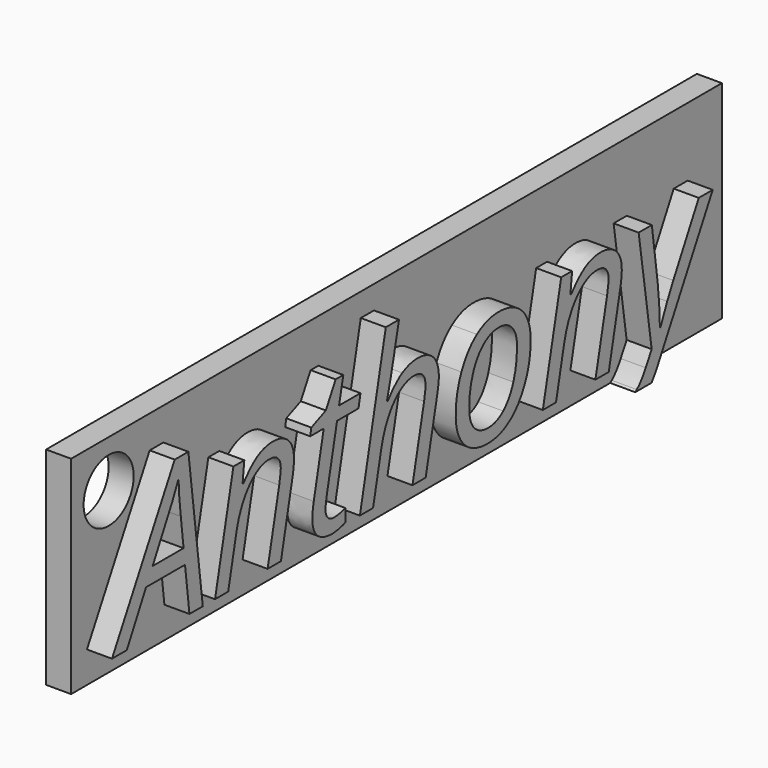
from build123d import *

# Parameters (mm, degrees)
F0_R     = 3.175
F1_DEPTH = 2.54
F2_DEPTH = 2.54


with BuildPart() as f1:
    # F0 (on Right) → F1 (new body)
    with BuildSketch(Plane.YZ):
        with BuildLine():
            Line((41.275, 17.8524902813), (-41.275, 17.8524902813))
            Line((-41.275, 17.8524902813), (-41.275, -3.175))
            Line((-41.275, -3.175), (27.1037448978, -3.175))
            add(Edge.make_bspline(
                [(27.1037448978, -3.175), (27.2077725582, -3.1051111025), (27.3052919784, -3.021180454)],
                knots=[0.8326981706, 0.8326981706, 0.8326981706, 1, 1, 1], degree=2))
            add(Edge.make_bspline(
                [(27.3052919784, -3.021180454), (27.8881871003, -2.5195084229), (28.4360448104, -1.5320904569)],
                knots=[0, 0, 0, 1, 1, 1], degree=2))
            Line((28.4360448104, -1.5320904569), (29.1909417715, -0.1783722777))
            Line((29.1909417715, -0.1783722777), (27.5378129833, 10.9093759144))
            Line((27.5378129833, 10.9093759144), (29.210053087, 10.9093759144))
            Line((29.210053087, 10.9093759144), (29.9490239518, 5.48494754))
            add(Edge.make_bspline(
                [(29.9490239518, 5.48494754), (30.0477657484, 4.7969401831), (30.1417297162, 3.4591481002)],
                knots=[0, 0, 0, 1, 1, 1], degree=2))
            add(Edge.make_bspline(
                [(30.1417297162, 3.4591481002), (30.2356936839, 2.1213560172), (30.2356936839, 1.3027546712)],
                knots=[0, 0, 0, 1, 1, 1], degree=2))
            Line((30.2356936839, 1.3027546712), (30.2962128496, 1.3027546712))
            add(Edge.make_bspline(
                [(30.2962128496, 1.3027546712), (30.6434017473, 2.1691343059), (31.1609998746, 3.295109309)],
                knots=[0, 0, 0, 1, 1, 1], degree=2))
            add(Edge.make_bspline(
                [(31.1609998746, 3.295109309), (31.6785980019, 4.4210843122), (31.927045103, 4.847903691)],
                knots=[0, 0, 0, 1, 1, 1], degree=2))
            Line((31.927045103, 4.847903691), (35.163227856, 10.9093759144))
            Line((35.163227856, 10.9093759144), (36.9342097563, 10.9093759144))
            Line((36.9342097563, 10.9093759144), (30.0063578983, -1.8506123814))
            add(Edge.make_bspline(
                [(30.0063578983, -1.8506123814), (29.5929182901, -2.6176141372), (29.1829882326, -3.175)],
                knots=[0, 0, 0, 0.4475842043, 0.4475842043, 0.4475842043], degree=2))
            Line((29.1829882326, -3.175), (41.275, -3.175))
            Line((41.275, -3.175), (41.275, 17.8524902813))
        make_face()
        with BuildLine():
            Line((-17.8356351628, 0), (-19.526986582, 0))
            Line((-19.526986582, 0), (-18.0522300715, 6.8896292271))
            add(Edge.make_bspline(
                [(-18.0522300715, 6.8896292271), (-17.8547464783, 7.9248254818), (-17.8547464783, 8.3229778874)],
                knots=[0, 0, 0, 1, 1, 1], degree=2))
            add(Edge.make_bspline(
                [(-17.8547464783, 8.3229778874), (-17.8547464783, 8.9472808594), (-18.2083058145, 9.3263219496)],
                knots=[0, 0, 0, 1, 1, 1], degree=2))
            add(Edge.make_bspline(
                [(-18.2083058145, 9.3263219496), (-18.5618651507, 9.7053630398), (-19.3358734272, 9.7053630398)],
                knots=[0, 0, 0, 1, 1, 1], degree=2))
            add(Edge.make_bspline(
                [(-19.3358734272, 9.7053630398), (-20.2245495966, 9.7053630398), (-21.0654474773, 9.1081344313)],
                knots=[0, 0, 0, 1, 1, 1], degree=2))
            add(Edge.make_bspline(
                [(-21.0654474773, 9.1081344313), (-21.906345358, 8.5109058228), (-22.5481670359, 7.4056347448)],
                knots=[0, 0, 0, 1, 1, 1], degree=2))
            add(Edge.make_bspline(
                [(-22.5481670359, 7.4056347448), (-23.1899887138, 6.3003636668), (-23.518066296, 4.7268653597)],
                knots=[0, 0, 0, 1, 1, 1], degree=2))
            Line((-23.518066296, 4.7268653597), (-24.5245955775, 0))
            Line((-24.5245955775, 0), (-26.1968356811, 0))
            Line((-26.1968356811, 0), (-23.8652551937, 10.9093759144))
            Line((-23.8652551937, 10.9093759144), (-22.4828700414, 10.9093759144))
            Line((-22.4828700414, 10.9093759144), (-22.7026501693, 8.889946913))
            Line((-22.7026501693, 8.889946913), (-22.6007231535, 8.889946913))
            add(Edge.make_bspline(
                [(-22.6007231535, 8.889946913), (-21.6451573799, 10.1035154454), (-20.7548886009, 10.6067800861)],
                knots=[0, 0, 0, 1, 1, 1], degree=2))
            add(Edge.make_bspline(
                [(-20.7548886009, 10.6067800861), (-19.8646198219, 11.1100447268), (-18.9090540484, 11.1100447268)],
                knots=[0, 0, 0, 1, 1, 1], degree=2))
            add(Edge.make_bspline(
                [(-18.9090540484, 11.1100447268), (-17.6445220081, 11.1100447268), (-16.9135141914, 10.417259541)],
                knots=[0, 0, 0, 1, 1, 1], degree=2))
            add(Edge.make_bspline(
                [(-16.9135141914, 10.417259541), (-16.1825063746, 9.7244743552), (-16.1825063746, 8.4822388496)],
                knots=[0, 0, 0, 1, 1, 1], degree=2))
            add(Edge.make_bspline(
                [(-16.1825063746, 8.4822388496), (-16.1825063746, 7.6954896961), (-16.4118421603, 6.6889604147)],
                knots=[0, 0, 0, 1, 1, 1], degree=2))
            Line((-16.4118421603, 6.6889604147), (-17.8356351628, 0))
        make_face(mode=Mode.SUBTRACT)
        with BuildLine():
            add(Edge.make_bspline(
                [(7.0234084354, 10.1576641726), (8.2576808929, 11.0495255612), (9.7579191573, 11.0495255612)],
                knots=[0, 0, 0, 1, 1, 1], degree=2))
            add(Edge.make_bspline(
                [(9.7579191573, 11.0495255612), (11.6499393889, 11.0495255612), (12.7456548092, 9.9299209965)],
                knots=[0, 0, 0, 1, 1, 1], degree=2))
            add(Edge.make_bspline(
                [(12.7456548092, 9.9299209965), (13.8413702295, 8.8103164319), (13.8413702295, 6.8482213769)],
                knots=[0, 0, 0, 1, 1, 1], degree=2))
            add(Edge.make_bspline(
                [(13.8413702295, 6.8482213769), (13.8413702295, 4.9784976801), (13.1246958993, 3.3158132341)],
                knots=[0, 0, 0, 1, 1, 1], degree=2))
            add(Edge.make_bspline(
                [(13.1246958993, 3.3158132341), (12.4080215692, 1.6531287882), (11.1833047695, 0.746933913)],
                knots=[0, 0, 0, 1, 1, 1], degree=2))
            add(Edge.make_bspline(
                [(11.1833047695, 0.746933913), (9.9585879697, -0.1592609623), (8.4169418551, -0.1592609623)],
                knots=[0, 0, 0, 1, 1, 1], degree=2))
            add(Edge.make_bspline(
                [(8.4169418551, -0.1592609623), (6.5058103081, -0.1592609623), (5.4196505455, 0.9651214313)],
                knots=[0, 0, 0, 1, 1, 1], degree=2))
            add(Edge.make_bspline(
                [(5.4196505455, 0.9651214313), (4.3334907829, 2.0895038248), (4.3334907829, 4.042043222)],
                knots=[0, 0, 0, 1, 1, 1], degree=2))
            add(Edge.make_bspline(
                [(4.3334907829, 4.042043222), (4.3334907829, 5.9340634536), (5.0613133804, 7.5999331188)],
                knots=[0, 0, 0, 1, 1, 1], degree=2))
            add(Edge.make_bspline(
                [(5.0613133804, 7.5999331188), (5.7891359779, 9.2658027839), (7.0234084354, 10.1576641726)],
                knots=[0, 0, 0, 1, 1, 1], degree=2))
        make_face(mode=Mode.SUBTRACT)
        with BuildLine():
            Line((23.7442168624, 0), (22.0528654433, 0))
            Line((22.0528654433, 0), (23.5276219538, 6.8896292271))
            add(Edge.make_bspline(
                [(23.5276219538, 6.8896292271), (23.725105547, 7.9248254818), (23.725105547, 8.3229778874)],
                knots=[0, 0, 0, 1, 1, 1], degree=2))
            add(Edge.make_bspline(
                [(23.725105547, 8.3229778874), (23.725105547, 8.9472808594), (23.3715462108, 9.3263219496)],
                knots=[0, 0, 0, 1, 1, 1], degree=2))
            add(Edge.make_bspline(
                [(23.3715462108, 9.3263219496), (23.0179868746, 9.7053630398), (22.243978598, 9.7053630398)],
                knots=[0, 0, 0, 1, 1, 1], degree=2))
            add(Edge.make_bspline(
                [(22.243978598, 9.7053630398), (21.3553024286, 9.7053630398), (20.5144045479, 9.1081344313)],
                knots=[0, 0, 0, 1, 1, 1], degree=2))
            add(Edge.make_bspline(
                [(20.5144045479, 9.1081344313), (19.6735066672, 8.5109058228), (19.0316849893, 7.4056347448)],
                knots=[0, 0, 0, 1, 1, 1], degree=2))
            add(Edge.make_bspline(
                [(19.0316849893, 7.4056347448), (18.3898633115, 6.3003636668), (18.0617857292, 4.7268653597)],
                knots=[0, 0, 0, 1, 1, 1], degree=2))
            Line((18.0617857292, 4.7268653597), (17.0552564478, 0))
            Line((17.0552564478, 0), (15.3830163441, 0))
            Line((15.3830163441, 0), (17.7145968315, 10.9093759144))
            Line((17.7145968315, 10.9093759144), (19.0969819839, 10.9093759144))
            Line((19.0969819839, 10.9093759144), (18.877201856, 8.889946913))
            Line((18.877201856, 8.889946913), (18.9791288718, 8.889946913))
            add(Edge.make_bspline(
                [(18.9791288718, 8.889946913), (19.9346946453, 10.1035154454), (20.8249634243, 10.6067800861)],
                knots=[0, 0, 0, 1, 1, 1], degree=2))
            add(Edge.make_bspline(
                [(20.8249634243, 10.6067800861), (21.7152322033, 11.1100447268), (22.6707979768, 11.1100447268)],
                knots=[0, 0, 0, 1, 1, 1], degree=2))
            add(Edge.make_bspline(
                [(22.6707979768, 11.1100447268), (23.9353300171, 11.1100447268), (24.6663378339, 10.417259541)],
                knots=[0, 0, 0, 1, 1, 1], degree=2))
            add(Edge.make_bspline(
                [(24.6663378339, 10.417259541), (25.3973456506, 9.7244743552), (25.3973456506, 8.4822388496)],
                knots=[0, 0, 0, 1, 1, 1], degree=2))
            add(Edge.make_bspline(
                [(25.3973456506, 8.4822388496), (25.3973456506, 7.6954896961), (25.168009865, 6.6889604147)],
                knots=[0, 0, 0, 1, 1, 1], degree=2))
            Line((25.168009865, 6.6889604147), (23.7442168624, 0))
        make_face(mode=Mode.SUBTRACT)
        Polygon((-29.4393888726, 0), (-30.0063578983, 4.6281235631), (-34.9434477281, 4.6281235631), (-37.3833256699, 0), (-39.2657902437, 0), (-31.3122977887, 14.5532667308), (-29.5795385194, 14.5532667308), (-27.7480374535, 0), align=None, mode=Mode.SUBTRACT)
        with BuildLine():
            add(Edge.make_bspline(
                [(-11.8904234419, 1.4636082431), (-11.6021611002, 1.1657902437), (-11.0861555825, 1.1657902437)],
                knots=[0, 0, 0, 1, 1, 1], degree=2))
            add(Edge.make_bspline(
                [(-11.0861555825, 1.1657902437), (-10.5382978723, 1.1657902437), (-9.6528069222, 1.4237930025)],
                knots=[0, 0, 0, 1, 1, 1], degree=2))
            Line((-9.6528069222, 1.4237930025), (-9.6528069222, 0.1401496468))
            add(Edge.make_bspline(
                [(-9.6528069222, 0.1401496468), (-9.9904401622, 0), (-10.4873343644, -0.1003344062)],
                knots=[0, 0, 0, 1, 1, 1], degree=2))
            add(Edge.make_bspline(
                [(-10.4873343644, -0.1003344062), (-10.9842285667, -0.2006688124), (-11.2836391757, -0.2006688124)],
                knots=[0, 0, 0, 1, 1, 1], degree=2))
            add(Edge.make_bspline(
                [(-11.2836391757, -0.2006688124), (-12.5290599005, -0.2006688124), (-13.1899928939, 0.3917819671)],
                knots=[0, 0, 0, 1, 1, 1], degree=2))
            add(Edge.make_bspline(
                [(-13.1899928939, 0.3917819671), (-13.8509258872, 0.9842327467), (-13.8509258872, 2.1595786482)],
                knots=[0, 0, 0, 1, 1, 1], degree=2))
            add(Edge.make_bspline(
                [(-13.8509258872, 2.1595786482), (-13.8509258872, 2.8157338126), (-13.6725536095, 3.6534464741)],
                knots=[0, 0, 0, 1, 1, 1], degree=2))
            Line((-13.6725536095, 3.6534464741), (-12.4080215692, 9.6448438741))
            Line((-12.4080215692, 9.6448438741), (-14.1216695231, 9.6448438741))
            Line((-14.1216695231, 9.6448438741), (-13.9815198763, 10.371073862))
            Line((-13.9815198763, 10.371073862), (-12.1404631526, 11.1482673578))
            Line((-12.1404631526, 11.1482673578), (-10.8950424278, 13.4193286795))
            Line((-10.8950424278, 13.4193286795), (-9.9203653388, 13.4193286795))
            Line((-9.9203653388, 13.4193286795), (-10.4682230489, 10.9093759144))
            Line((-10.4682230489, 10.9093759144), (-7.7416753752, 10.9093759144))
            Line((-7.7416753752, 10.9093759144), (-7.999678134, 9.6448438741))
            Line((-7.999678134, 9.6448438741), (-10.7166701501, 9.6448438741))
            Line((-10.7166701501, 9.6448438741), (-12.0003135058, 3.6343351586))
            add(Edge.make_bspline(
                [(-12.0003135058, 3.6343351586), (-12.1786857836, 2.767955524), (-12.1786857836, 2.3188396104)],
                knots=[0, 0, 0, 1, 1, 1], degree=2))
            add(Edge.make_bspline(
                [(-12.1786857836, 2.3188396104), (-12.1786857836, 1.7614262425), (-11.8904234419, 1.4636082431)],
                knots=[0, 0, 0, 1, 1, 1], degree=2))
        make_face(mode=Mode.SUBTRACT)
        with BuildLine():
            Line((0.5207833466, 0), (-1.1514567571, 0))
            Line((-1.1514567571, 0), (0.3232997534, 6.8896292271))
            add(Edge.make_bspline(
                [(0.3232997534, 6.8896292271), (0.5016720311, 7.8228984659), (0.5016720311, 8.2306065293)],
                knots=[0, 0, 0, 1, 1, 1], degree=2))
            add(Edge.make_bspline(
                [(0.5016720311, 8.2306065293), (0.5016720311, 9.7053630398), (-0.9603436024, 9.7053630398)],
                knots=[0, 0, 0, 1, 1, 1], degree=2))
            add(Edge.make_bspline(
                [(-0.9603436024, 9.7053630398), (-1.8490197718, 9.7053630398), (-2.6899176525, 9.117690089)],
                knots=[0, 0, 0, 1, 1, 1], degree=2))
            add(Edge.make_bspline(
                [(-2.6899176525, 9.117690089), (-3.5308155332, 8.5300171383), (-4.1726372111, 7.4104125737)],
                knots=[0, 0, 0, 1, 1, 1], degree=2))
            add(Edge.make_bspline(
                [(-4.1726372111, 7.4104125737), (-4.8144588889, 6.290808009), (-5.1425364712, 4.7077540442)],
                knots=[0, 0, 0, 1, 1, 1], degree=2))
            Line((-5.1425364712, 4.7077540442), (-6.1490657526, 0))
            Line((-6.1490657526, 0), (-7.8213058563, 0))
            Line((-7.8213058563, 0), (-4.5341595954, 15.4897211888))
            Line((-4.5341595954, 15.4897211888), (-2.8619194917, 15.4897211888))
            add(Edge.make_bspline(
                [(-2.8619194917, 15.4897211888), (-3.0434769887, 14.6711198428), (-3.2075157798, 13.9050746144)],
                knots=[0, 0, 0, 1, 1, 1], degree=2))
            add(Edge.make_bspline(
                [(-3.2075157798, 13.9050746144), (-3.3715545709, 13.1390293859), (-3.5451490198, 12.3475024035)],
                knots=[0, 0, 0, 1, 1, 1], degree=2))
            add(Edge.make_bspline(
                [(-3.5451490198, 12.3475024035), (-3.7187434686, 11.5559754211), (-3.9225975003, 10.6895957865)],
                knots=[0, 0, 0, 1, 1, 1], degree=2))
            add(Edge.make_bspline(
                [(-3.9225975003, 10.6895957865), (-4.126451532, 9.8232161518), (-4.3971951678, 8.8103164319)],
                knots=[0, 0, 0, 1, 1, 1], degree=2))
            Line((-4.3971951678, 8.8103164319), (-4.2857124943, 8.8103164319))
            add(Edge.make_bspline(
                [(-4.2857124943, 8.8103164319), (-3.3492580362, 10.033440622), (-2.4398779417, 10.5605944071)],
                knots=[0, 0, 0, 1, 1, 1], degree=2))
            add(Edge.make_bspline(
                [(-2.4398779417, 10.5605944071), (-1.5304978473, 11.0877481921), (-0.5335242236, 11.0877481921)],
                knots=[0, 0, 0, 1, 1, 1], degree=2))
            add(Edge.make_bspline(
                [(-0.5335242236, 11.0877481921), (0.7692304477, 11.0877481921), (1.481126949, 10.371073862)],
                knots=[0, 0, 0, 1, 1, 1], degree=2))
            add(Edge.make_bspline(
                [(1.481126949, 10.371073862), (2.1930234502, 9.6543995318), (2.1930234502, 8.3420892029)],
                knots=[0, 0, 0, 1, 1, 1], degree=2))
            add(Edge.make_bspline(
                [(2.1930234502, 8.3420892029), (2.1930234502, 7.7241566693), (1.9636876646, 6.6889604147)],
                knots=[0, 0, 0, 1, 1, 1], degree=2))
            add(Edge.make_bspline(
                [(1.9636876646, 6.6889604147), (1.5750909167, 4.7682732099), (0.5207833466, 0)],
                knots=[0, 0, 0, 1, 1, 1], degree=2))
        make_face(mode=Mode.SUBTRACT)
        with Locations((-36.5125, 13.0899902813)):
            Circle(F0_R, mode=Mode.SUBTRACT)
        with BuildLine():
            add(Edge.make_bspline(
                [(9.7579191573, 11.0495255612), (11.6499393889, 11.0495255612), (12.7456548092, 9.9299209965)],
                knots=[0, 0, 0, 1, 1, 1], degree=2))
            add(Edge.make_bspline(
                [(7.0234084354, 10.1576641726), (8.2576808929, 11.0495255612), (9.7579191573, 11.0495255612)],
                knots=[0, 0, 0, 1, 1, 1], degree=2))
            add(Edge.make_bspline(
                [(5.0613133804, 7.5999331188), (5.7891359779, 9.2658027839), (7.0234084354, 10.1576641726)],
                knots=[0, 0, 0, 1, 1, 1], degree=2))
            add(Edge.make_bspline(
                [(4.3334907829, 4.042043222), (4.3334907829, 5.9340634536), (5.0613133804, 7.5999331188)],
                knots=[0, 0, 0, 1, 1, 1], degree=2))
            add(Edge.make_bspline(
                [(5.4196505455, 0.9651214313), (4.3334907829, 2.0895038248), (4.3334907829, 4.042043222)],
                knots=[0, 0, 0, 1, 1, 1], degree=2))
            add(Edge.make_bspline(
                [(8.4169418551, -0.1592609623), (6.5058103081, -0.1592609623), (5.4196505455, 0.9651214313)],
                knots=[0, 0, 0, 1, 1, 1], degree=2))
            add(Edge.make_bspline(
                [(11.1833047695, 0.746933913), (9.9585879697, -0.1592609623), (8.4169418551, -0.1592609623)],
                knots=[0, 0, 0, 1, 1, 1], degree=2))
            add(Edge.make_bspline(
                [(13.1246958993, 3.3158132341), (12.4080215692, 1.6531287882), (11.1833047695, 0.746933913)],
                knots=[0, 0, 0, 1, 1, 1], degree=2))
            add(Edge.make_bspline(
                [(13.8413702295, 6.8482213769), (13.8413702295, 4.9784976801), (13.1246958993, 3.3158132341)],
                knots=[0, 0, 0, 1, 1, 1], degree=2))
            add(Edge.make_bspline(
                [(12.7456548092, 9.9299209965), (13.8413702295, 8.8103164319), (13.8413702295, 6.8482213769)],
                knots=[0, 0, 0, 1, 1, 1], degree=2))
        make_face()
        with BuildLine():
            add(Edge.make_bspline(
                [(12.1086109602, 7.0775571626), (12.1086109602, 8.2210508715), (11.4859005978, 8.9329473728)],
                knots=[0, 0, 0, 1, 1, 1], degree=2))
            add(Edge.make_bspline(
                [(11.64516156, 4.016561468), (12.1086109602, 5.354353551), (12.1086109602, 7.0775571626)],
                knots=[0, 0, 0, 1, 1, 1], degree=2))
            add(Edge.make_bspline(
                [(10.3567403754, 1.9509467876), (11.1817121598, 2.6787693851), (11.64516156, 4.016561468)],
                knots=[0, 0, 0, 1, 1, 1], degree=2))
            add(Edge.make_bspline(
                [(8.4965723362, 1.2231241901), (9.5317685909, 1.2231241901), (10.3567403754, 1.9509467876)],
                knots=[0, 0, 0, 1, 1, 1], degree=2))
            add(Edge.make_bspline(
                [(6.6794047569, 1.9350206914), (7.3116707771, 1.2231241901), (8.4965723362, 1.2231241901)],
                knots=[0, 0, 0, 1, 1, 1], degree=2))
            add(Edge.make_bspline(
                [(6.0471387368, 3.9528570831), (6.0471387368, 2.6469171927), (6.6794047569, 1.9350206914)],
                knots=[0, 0, 0, 1, 1, 1], degree=2))
            add(Edge.make_bspline(
                [(6.5201437947, 6.8641474731), (6.0471387368, 5.5550223634), (6.0471387368, 3.9528570831)],
                knots=[0, 0, 0, 1, 1, 1], degree=2))
            add(Edge.make_bspline(
                [(7.8531580487, 8.9090582285), (6.9931488526, 8.1732725829), (6.5201437947, 6.8641474731)],
                knots=[0, 0, 0, 1, 1, 1], degree=2))
            add(Edge.make_bspline(
                [(9.7993270075, 9.6448438741), (8.7131672449, 9.6448438741), (7.8531580487, 8.9090582285)],
                knots=[0, 0, 0, 1, 1, 1], degree=2))
            add(Edge.make_bspline(
                [(11.4859005978, 8.9329473728), (10.8631902353, 9.6448438741), (9.7993270075, 9.6448438741)],
                knots=[0, 0, 0, 1, 1, 1], degree=2))
        make_face(mode=Mode.SUBTRACT)
        Polygon((-34.9434477281, 4.6281235631), (-30.0063578983, 4.6281235631), (-29.4393888726, 0), (-27.7480374535, 0), (-29.5795385194, 14.5532667308), (-31.3122977887, 14.5532667308), (-39.2657902437, 0), (-37.3833256699, 0), align=None)
        with BuildLine():
            Line((-30.5351042929, 9.1575053296), (-30.1879153952, 6.1825105547))
            Line((-30.1879153952, 6.1825105547), (-34.1089202859, 6.1825105547))
            add(Edge.make_bspline(
                [(-31.6244492748, 10.8998202567), (-32.0576390921, 10.033440622), (-34.1089202859, 6.1825105547)],
                knots=[0, 0, 0, 1, 1, 1], degree=2))
            add(Edge.make_bspline(
                [(-30.8249592442, 12.6421351837), (-31.1912594574, 11.7661998913), (-31.6244492748, 10.8998202567)],
                knots=[0, 0, 0, 1, 1, 1], degree=2))
            add(Edge.make_bspline(
                [(-30.5351042929, 9.1575053296), (-30.7739957363, 10.9380428876), (-30.8249592442, 12.6421351837)],
                knots=[0, 0, 0, 1, 1, 1], degree=2))
        make_face(mode=Mode.SUBTRACT)
        with BuildLine():
            Line((0.3232997534, 6.8896292271), (-1.1514567571, 0))
            Line((-1.1514567571, 0), (0.5207833466, 0))
            add(Edge.make_bspline(
                [(1.9636876646, 6.6889604147), (1.5750909167, 4.7682732099), (0.5207833466, 0)],
                knots=[0, 0, 0, 1, 1, 1], degree=2))
            add(Edge.make_bspline(
                [(2.1930234502, 8.3420892029), (2.1930234502, 7.7241566693), (1.9636876646, 6.6889604147)],
                knots=[0, 0, 0, 1, 1, 1], degree=2))
            add(Edge.make_bspline(
                [(1.481126949, 10.371073862), (2.1930234502, 9.6543995318), (2.1930234502, 8.3420892029)],
                knots=[0, 0, 0, 1, 1, 1], degree=2))
            add(Edge.make_bspline(
                [(-0.5335242236, 11.0877481921), (0.7692304477, 11.0877481921), (1.481126949, 10.371073862)],
                knots=[0, 0, 0, 1, 1, 1], degree=2))
            add(Edge.make_bspline(
                [(-2.4398779417, 10.5605944071), (-1.5304978473, 11.0877481921), (-0.5335242236, 11.0877481921)],
                knots=[0, 0, 0, 1, 1, 1], degree=2))
            add(Edge.make_bspline(
                [(-4.2857124943, 8.8103164319), (-3.3492580362, 10.033440622), (-2.4398779417, 10.5605944071)],
                knots=[0, 0, 0, 1, 1, 1], degree=2))
            Line((-4.2857124943, 8.8103164319), (-4.3971951678, 8.8103164319))
            add(Edge.make_bspline(
                [(-3.9225975003, 10.6895957865), (-4.126451532, 9.8232161518), (-4.3971951678, 8.8103164319)],
                knots=[0, 0, 0, 1, 1, 1], degree=2))
            add(Edge.make_bspline(
                [(-3.5451490198, 12.3475024035), (-3.7187434686, 11.5559754211), (-3.9225975003, 10.6895957865)],
                knots=[0, 0, 0, 1, 1, 1], degree=2))
            add(Edge.make_bspline(
                [(-3.2075157798, 13.9050746144), (-3.3715545709, 13.1390293859), (-3.5451490198, 12.3475024035)],
                knots=[0, 0, 0, 1, 1, 1], degree=2))
            add(Edge.make_bspline(
                [(-2.8619194917, 15.4897211888), (-3.0434769887, 14.6711198428), (-3.2075157798, 13.9050746144)],
                knots=[0, 0, 0, 1, 1, 1], degree=2))
            Line((-2.8619194917, 15.4897211888), (-4.5341595954, 15.4897211888))
            Line((-4.5341595954, 15.4897211888), (-7.8213058563, 0))
            Line((-7.8213058563, 0), (-6.1490657526, 0))
            Line((-6.1490657526, 0), (-5.1425364712, 4.7077540442))
            add(Edge.make_bspline(
                [(-4.1726372111, 7.4104125737), (-4.8144588889, 6.290808009), (-5.1425364712, 4.7077540442)],
                knots=[0, 0, 0, 1, 1, 1], degree=2))
            add(Edge.make_bspline(
                [(-2.6899176525, 9.117690089), (-3.5308155332, 8.5300171383), (-4.1726372111, 7.4104125737)],
                knots=[0, 0, 0, 1, 1, 1], degree=2))
            add(Edge.make_bspline(
                [(-0.9603436024, 9.7053630398), (-1.8490197718, 9.7053630398), (-2.6899176525, 9.117690089)],
                knots=[0, 0, 0, 1, 1, 1], degree=2))
            add(Edge.make_bspline(
                [(0.5016720311, 8.2306065293), (0.5016720311, 9.7053630398), (-0.9603436024, 9.7053630398)],
                knots=[0, 0, 0, 1, 1, 1], degree=2))
            add(Edge.make_bspline(
                [(0.3232997534, 6.8896292271), (0.5016720311, 7.8228984659), (0.5016720311, 8.2306065293)],
                knots=[0, 0, 0, 1, 1, 1], degree=2))
        make_face()
        with BuildLine():
            Line((-18.0522300715, 6.8896292271), (-19.526986582, 0))
            Line((-19.526986582, 0), (-17.8356351628, 0))
            Line((-17.8356351628, 0), (-16.4118421603, 6.6889604147))
            add(Edge.make_bspline(
                [(-16.1825063746, 8.4822388496), (-16.1825063746, 7.6954896961), (-16.4118421603, 6.6889604147)],
                knots=[0, 0, 0, 1, 1, 1], degree=2))
            add(Edge.make_bspline(
                [(-16.9135141914, 10.417259541), (-16.1825063746, 9.7244743552), (-16.1825063746, 8.4822388496)],
                knots=[0, 0, 0, 1, 1, 1], degree=2))
            add(Edge.make_bspline(
                [(-18.9090540484, 11.1100447268), (-17.6445220081, 11.1100447268), (-16.9135141914, 10.417259541)],
                knots=[0, 0, 0, 1, 1, 1], degree=2))
            add(Edge.make_bspline(
                [(-20.7548886009, 10.6067800861), (-19.8646198219, 11.1100447268), (-18.9090540484, 11.1100447268)],
                knots=[0, 0, 0, 1, 1, 1], degree=2))
            add(Edge.make_bspline(
                [(-22.6007231535, 8.889946913), (-21.6451573799, 10.1035154454), (-20.7548886009, 10.6067800861)],
                knots=[0, 0, 0, 1, 1, 1], degree=2))
            Line((-22.6007231535, 8.889946913), (-22.7026501693, 8.889946913))
            Line((-22.7026501693, 8.889946913), (-22.4828700414, 10.9093759144))
            Line((-22.4828700414, 10.9093759144), (-23.8652551937, 10.9093759144))
            Line((-23.8652551937, 10.9093759144), (-26.1968356811, 0))
            Line((-26.1968356811, 0), (-24.5245955775, 0))
            Line((-24.5245955775, 0), (-23.518066296, 4.7268653597))
            add(Edge.make_bspline(
                [(-22.5481670359, 7.4056347448), (-23.1899887138, 6.3003636668), (-23.518066296, 4.7268653597)],
                knots=[0, 0, 0, 1, 1, 1], degree=2))
            add(Edge.make_bspline(
                [(-21.0654474773, 9.1081344313), (-21.906345358, 8.5109058228), (-22.5481670359, 7.4056347448)],
                knots=[0, 0, 0, 1, 1, 1], degree=2))
            add(Edge.make_bspline(
                [(-19.3358734272, 9.7053630398), (-20.2245495966, 9.7053630398), (-21.0654474773, 9.1081344313)],
                knots=[0, 0, 0, 1, 1, 1], degree=2))
            add(Edge.make_bspline(
                [(-18.2083058145, 9.3263219496), (-18.5618651507, 9.7053630398), (-19.3358734272, 9.7053630398)],
                knots=[0, 0, 0, 1, 1, 1], degree=2))
            add(Edge.make_bspline(
                [(-17.8547464783, 8.3229778874), (-17.8547464783, 8.9472808594), (-18.2083058145, 9.3263219496)],
                knots=[0, 0, 0, 1, 1, 1], degree=2))
            add(Edge.make_bspline(
                [(-18.0522300715, 6.8896292271), (-17.8547464783, 7.9248254818), (-17.8547464783, 8.3229778874)],
                knots=[0, 0, 0, 1, 1, 1], degree=2))
        make_face()
        with BuildLine():
            Line((23.5276219538, 6.8896292271), (22.0528654433, 0))
            Line((22.0528654433, 0), (23.7442168624, 0))
            Line((23.7442168624, 0), (25.168009865, 6.6889604147))
            add(Edge.make_bspline(
                [(25.3973456506, 8.4822388496), (25.3973456506, 7.6954896961), (25.168009865, 6.6889604147)],
                knots=[0, 0, 0, 1, 1, 1], degree=2))
            add(Edge.make_bspline(
                [(24.6663378339, 10.417259541), (25.3973456506, 9.7244743552), (25.3973456506, 8.4822388496)],
                knots=[0, 0, 0, 1, 1, 1], degree=2))
            add(Edge.make_bspline(
                [(22.6707979768, 11.1100447268), (23.9353300171, 11.1100447268), (24.6663378339, 10.417259541)],
                knots=[0, 0, 0, 1, 1, 1], degree=2))
            add(Edge.make_bspline(
                [(20.8249634243, 10.6067800861), (21.7152322033, 11.1100447268), (22.6707979768, 11.1100447268)],
                knots=[0, 0, 0, 1, 1, 1], degree=2))
            add(Edge.make_bspline(
                [(18.9791288718, 8.889946913), (19.9346946453, 10.1035154454), (20.8249634243, 10.6067800861)],
                knots=[0, 0, 0, 1, 1, 1], degree=2))
            Line((18.9791288718, 8.889946913), (18.877201856, 8.889946913))
            Line((18.877201856, 8.889946913), (19.0969819839, 10.9093759144))
            Line((19.0969819839, 10.9093759144), (17.7145968315, 10.9093759144))
            Line((17.7145968315, 10.9093759144), (15.3830163441, 0))
            Line((15.3830163441, 0), (17.0552564478, 0))
            Line((17.0552564478, 0), (18.0617857292, 4.7268653597))
            add(Edge.make_bspline(
                [(19.0316849893, 7.4056347448), (18.3898633115, 6.3003636668), (18.0617857292, 4.7268653597)],
                knots=[0, 0, 0, 1, 1, 1], degree=2))
            add(Edge.make_bspline(
                [(20.5144045479, 9.1081344313), (19.6735066672, 8.5109058228), (19.0316849893, 7.4056347448)],
                knots=[0, 0, 0, 1, 1, 1], degree=2))
            add(Edge.make_bspline(
                [(22.243978598, 9.7053630398), (21.3553024286, 9.7053630398), (20.5144045479, 9.1081344313)],
                knots=[0, 0, 0, 1, 1, 1], degree=2))
            add(Edge.make_bspline(
                [(23.3715462108, 9.3263219496), (23.0179868746, 9.7053630398), (22.243978598, 9.7053630398)],
                knots=[0, 0, 0, 1, 1, 1], degree=2))
            add(Edge.make_bspline(
                [(23.725105547, 8.3229778874), (23.725105547, 8.9472808594), (23.3715462108, 9.3263219496)],
                knots=[0, 0, 0, 1, 1, 1], degree=2))
            add(Edge.make_bspline(
                [(23.5276219538, 6.8896292271), (23.725105547, 7.9248254818), (23.725105547, 8.3229778874)],
                knots=[0, 0, 0, 1, 1, 1], degree=2))
        make_face()
        with BuildLine():
            add(Edge.make_bspline(
                [(11.64516156, 4.016561468), (12.1086109602, 5.354353551), (12.1086109602, 7.0775571626)],
                knots=[0, 0, 0, 1, 1, 1], degree=2))
            add(Edge.make_bspline(
                [(12.1086109602, 7.0775571626), (12.1086109602, 8.2210508715), (11.4859005978, 8.9329473728)],
                knots=[0, 0, 0, 1, 1, 1], degree=2))
            add(Edge.make_bspline(
                [(11.4859005978, 8.9329473728), (10.8631902353, 9.6448438741), (9.7993270075, 9.6448438741)],
                knots=[0, 0, 0, 1, 1, 1], degree=2))
            add(Edge.make_bspline(
                [(9.7993270075, 9.6448438741), (8.7131672449, 9.6448438741), (7.8531580487, 8.9090582285)],
                knots=[0, 0, 0, 1, 1, 1], degree=2))
            add(Edge.make_bspline(
                [(7.8531580487, 8.9090582285), (6.9931488526, 8.1732725829), (6.5201437947, 6.8641474731)],
                knots=[0, 0, 0, 1, 1, 1], degree=2))
            add(Edge.make_bspline(
                [(6.5201437947, 6.8641474731), (6.0471387368, 5.5550223634), (6.0471387368, 3.9528570831)],
                knots=[0, 0, 0, 1, 1, 1], degree=2))
            add(Edge.make_bspline(
                [(6.0471387368, 3.9528570831), (6.0471387368, 2.6469171927), (6.6794047569, 1.9350206914)],
                knots=[0, 0, 0, 1, 1, 1], degree=2))
            add(Edge.make_bspline(
                [(6.6794047569, 1.9350206914), (7.3116707771, 1.2231241901), (8.4965723362, 1.2231241901)],
                knots=[0, 0, 0, 1, 1, 1], degree=2))
            add(Edge.make_bspline(
                [(8.4965723362, 1.2231241901), (9.5317685909, 1.2231241901), (10.3567403754, 1.9509467876)],
                knots=[0, 0, 0, 1, 1, 1], degree=2))
            add(Edge.make_bspline(
                [(10.3567403754, 1.9509467876), (11.1817121598, 2.6787693851), (11.64516156, 4.016561468)],
                knots=[0, 0, 0, 1, 1, 1], degree=2))
        make_face()
        with BuildLine():
            add(Edge.make_bspline(
                [(27.1037448978, -3.175), (27.2077725582, -3.1051111025), (27.3052919784, -3.021180454)],
                knots=[0.8326981706, 0.8326981706, 0.8326981706, 1, 1, 1], degree=2))
            Line((27.1037448978, -3.175), (29.1829882326, -3.175))
            add(Edge.make_bspline(
                [(30.0063578983, -1.8506123814), (29.5929182901, -2.6176141372), (29.1829882326, -3.175)],
                knots=[0, 0, 0, 0.4475842043, 0.4475842043, 0.4475842043], degree=2))
            Line((30.0063578983, -1.8506123814), (36.9342097563, 10.9093759144))
            Line((36.9342097563, 10.9093759144), (35.163227856, 10.9093759144))
            Line((35.163227856, 10.9093759144), (31.927045103, 4.847903691))
            add(Edge.make_bspline(
                [(31.1609998746, 3.295109309), (31.6785980019, 4.4210843122), (31.927045103, 4.847903691)],
                knots=[0, 0, 0, 1, 1, 1], degree=2))
            add(Edge.make_bspline(
                [(30.2962128496, 1.3027546712), (30.6434017473, 2.1691343059), (31.1609998746, 3.295109309)],
                knots=[0, 0, 0, 1, 1, 1], degree=2))
            Line((30.2962128496, 1.3027546712), (30.2356936839, 1.3027546712))
            add(Edge.make_bspline(
                [(30.1417297162, 3.4591481002), (30.2356936839, 2.1213560172), (30.2356936839, 1.3027546712)],
                knots=[0, 0, 0, 1, 1, 1], degree=2))
            add(Edge.make_bspline(
                [(29.9490239518, 5.48494754), (30.0477657484, 4.7969401831), (30.1417297162, 3.4591481002)],
                knots=[0, 0, 0, 1, 1, 1], degree=2))
            Line((29.9490239518, 5.48494754), (29.210053087, 10.9093759144))
            Line((29.210053087, 10.9093759144), (27.5378129833, 10.9093759144))
            Line((27.5378129833, 10.9093759144), (29.1909417715, -0.1783722777))
            Line((29.1909417715, -0.1783722777), (28.4360448104, -1.5320904569))
            add(Edge.make_bspline(
                [(27.3052919784, -3.021180454), (27.8881871003, -2.5195084229), (28.4360448104, -1.5320904569)],
                knots=[0, 0, 0, 1, 1, 1], degree=2))
        make_face()
        with BuildLine():
            add(Edge.make_bspline(
                [(-11.0861555825, 1.1657902437), (-10.5382978723, 1.1657902437), (-9.6528069222, 1.4237930025)],
                knots=[0, 0, 0, 1, 1, 1], degree=2))
            add(Edge.make_bspline(
                [(-11.8904234419, 1.4636082431), (-11.6021611002, 1.1657902437), (-11.0861555825, 1.1657902437)],
                knots=[0, 0, 0, 1, 1, 1], degree=2))
            add(Edge.make_bspline(
                [(-12.1786857836, 2.3188396104), (-12.1786857836, 1.7614262425), (-11.8904234419, 1.4636082431)],
                knots=[0, 0, 0, 1, 1, 1], degree=2))
            add(Edge.make_bspline(
                [(-12.0003135058, 3.6343351586), (-12.1786857836, 2.767955524), (-12.1786857836, 2.3188396104)],
                knots=[0, 0, 0, 1, 1, 1], degree=2))
            Line((-12.0003135058, 3.6343351586), (-10.7166701501, 9.6448438741))
            Line((-10.7166701501, 9.6448438741), (-7.999678134, 9.6448438741))
            Line((-7.999678134, 9.6448438741), (-7.7416753752, 10.9093759144))
            Line((-7.7416753752, 10.9093759144), (-10.4682230489, 10.9093759144))
            Line((-10.4682230489, 10.9093759144), (-9.9203653388, 13.4193286795))
            Line((-9.9203653388, 13.4193286795), (-10.8950424278, 13.4193286795))
            Line((-10.8950424278, 13.4193286795), (-12.1404631526, 11.1482673578))
            Line((-12.1404631526, 11.1482673578), (-13.9815198763, 10.371073862))
            Line((-13.9815198763, 10.371073862), (-14.1216695231, 9.6448438741))
            Line((-14.1216695231, 9.6448438741), (-12.4080215692, 9.6448438741))
            Line((-12.4080215692, 9.6448438741), (-13.6725536095, 3.6534464741))
            add(Edge.make_bspline(
                [(-13.8509258872, 2.1595786482), (-13.8509258872, 2.8157338126), (-13.6725536095, 3.6534464741)],
                knots=[0, 0, 0, 1, 1, 1], degree=2))
            add(Edge.make_bspline(
                [(-13.1899928939, 0.3917819671), (-13.8509258872, 0.9842327467), (-13.8509258872, 2.1595786482)],
                knots=[0, 0, 0, 1, 1, 1], degree=2))
            add(Edge.make_bspline(
                [(-11.2836391757, -0.2006688124), (-12.5290599005, -0.2006688124), (-13.1899928939, 0.3917819671)],
                knots=[0, 0, 0, 1, 1, 1], degree=2))
            add(Edge.make_bspline(
                [(-10.4873343644, -0.1003344062), (-10.9842285667, -0.2006688124), (-11.2836391757, -0.2006688124)],
                knots=[0, 0, 0, 1, 1, 1], degree=2))
            add(Edge.make_bspline(
                [(-9.6528069222, 0.1401496468), (-9.9904401622, 0), (-10.4873343644, -0.1003344062)],
                knots=[0, 0, 0, 1, 1, 1], degree=2))
            Line((-9.6528069222, 0.1401496468), (-9.6528069222, 1.4237930025))
        make_face()
        with BuildLine():
            Line((-34.1089202859, 6.1825105547), (-30.1879153952, 6.1825105547))
            Line((-30.1879153952, 6.1825105547), (-30.5351042929, 9.1575053296))
            add(Edge.make_bspline(
                [(-30.5351042929, 9.1575053296), (-30.7739957363, 10.9380428876), (-30.8249592442, 12.6421351837)],
                knots=[0, 0, 0, 1, 1, 1], degree=2))
            add(Edge.make_bspline(
                [(-30.8249592442, 12.6421351837), (-31.1912594574, 11.7661998913), (-31.6244492748, 10.8998202567)],
                knots=[0, 0, 0, 1, 1, 1], degree=2))
            add(Edge.make_bspline(
                [(-31.6244492748, 10.8998202567), (-32.0576390921, 10.033440622), (-34.1089202859, 6.1825105547)],
                knots=[0, 0, 0, 1, 1, 1], degree=2))
        make_face()
    extrude(amount=-F1_DEPTH)

    # F0 (on Right) → F2 (join)
    with BuildSketch(Plane.YZ):
        Polygon((-34.9434477281, 4.6281235631), (-30.0063578983, 4.6281235631), (-29.4393888726, 0), (-27.7480374535, 0), (-29.5795385194, 14.5532667308), (-31.3122977887, 14.5532667308), (-39.2657902437, 0), (-37.3833256699, 0), align=None)
        with BuildLine():
            Line((-30.5351042929, 9.1575053296), (-30.1879153952, 6.1825105547))
            Line((-30.1879153952, 6.1825105547), (-34.1089202859, 6.1825105547))
            add(Edge.make_bspline(
                [(-31.6244492748, 10.8998202567), (-32.0576390921, 10.033440622), (-34.1089202859, 6.1825105547)],
                knots=[0, 0, 0, 1, 1, 1], degree=2))
            add(Edge.make_bspline(
                [(-30.8249592442, 12.6421351837), (-31.1912594574, 11.7661998913), (-31.6244492748, 10.8998202567)],
                knots=[0, 0, 0, 1, 1, 1], degree=2))
            add(Edge.make_bspline(
                [(-30.5351042929, 9.1575053296), (-30.7739957363, 10.9380428876), (-30.8249592442, 12.6421351837)],
                knots=[0, 0, 0, 1, 1, 1], degree=2))
        make_face(mode=Mode.SUBTRACT)
        with BuildLine():
            Line((-18.0522300715, 6.8896292271), (-19.526986582, 0))
            Line((-19.526986582, 0), (-17.8356351628, 0))
            Line((-17.8356351628, 0), (-16.4118421603, 6.6889604147))
            add(Edge.make_bspline(
                [(-16.1825063746, 8.4822388496), (-16.1825063746, 7.6954896961), (-16.4118421603, 6.6889604147)],
                knots=[0, 0, 0, 1, 1, 1], degree=2))
            add(Edge.make_bspline(
                [(-16.9135141914, 10.417259541), (-16.1825063746, 9.7244743552), (-16.1825063746, 8.4822388496)],
                knots=[0, 0, 0, 1, 1, 1], degree=2))
            add(Edge.make_bspline(
                [(-18.9090540484, 11.1100447268), (-17.6445220081, 11.1100447268), (-16.9135141914, 10.417259541)],
                knots=[0, 0, 0, 1, 1, 1], degree=2))
            add(Edge.make_bspline(
                [(-20.7548886009, 10.6067800861), (-19.8646198219, 11.1100447268), (-18.9090540484, 11.1100447268)],
                knots=[0, 0, 0, 1, 1, 1], degree=2))
            add(Edge.make_bspline(
                [(-22.6007231535, 8.889946913), (-21.6451573799, 10.1035154454), (-20.7548886009, 10.6067800861)],
                knots=[0, 0, 0, 1, 1, 1], degree=2))
            Line((-22.6007231535, 8.889946913), (-22.7026501693, 8.889946913))
            Line((-22.7026501693, 8.889946913), (-22.4828700414, 10.9093759144))
            Line((-22.4828700414, 10.9093759144), (-23.8652551937, 10.9093759144))
            Line((-23.8652551937, 10.9093759144), (-26.1968356811, 0))
            Line((-26.1968356811, 0), (-24.5245955775, 0))
            Line((-24.5245955775, 0), (-23.518066296, 4.7268653597))
            add(Edge.make_bspline(
                [(-22.5481670359, 7.4056347448), (-23.1899887138, 6.3003636668), (-23.518066296, 4.7268653597)],
                knots=[0, 0, 0, 1, 1, 1], degree=2))
            add(Edge.make_bspline(
                [(-21.0654474773, 9.1081344313), (-21.906345358, 8.5109058228), (-22.5481670359, 7.4056347448)],
                knots=[0, 0, 0, 1, 1, 1], degree=2))
            add(Edge.make_bspline(
                [(-19.3358734272, 9.7053630398), (-20.2245495966, 9.7053630398), (-21.0654474773, 9.1081344313)],
                knots=[0, 0, 0, 1, 1, 1], degree=2))
            add(Edge.make_bspline(
                [(-18.2083058145, 9.3263219496), (-18.5618651507, 9.7053630398), (-19.3358734272, 9.7053630398)],
                knots=[0, 0, 0, 1, 1, 1], degree=2))
            add(Edge.make_bspline(
                [(-17.8547464783, 8.3229778874), (-17.8547464783, 8.9472808594), (-18.2083058145, 9.3263219496)],
                knots=[0, 0, 0, 1, 1, 1], degree=2))
            add(Edge.make_bspline(
                [(-18.0522300715, 6.8896292271), (-17.8547464783, 7.9248254818), (-17.8547464783, 8.3229778874)],
                knots=[0, 0, 0, 1, 1, 1], degree=2))
        make_face()
        with BuildLine():
            add(Edge.make_bspline(
                [(-11.0861555825, 1.1657902437), (-10.5382978723, 1.1657902437), (-9.6528069222, 1.4237930025)],
                knots=[0, 0, 0, 1, 1, 1], degree=2))
            add(Edge.make_bspline(
                [(-11.8904234419, 1.4636082431), (-11.6021611002, 1.1657902437), (-11.0861555825, 1.1657902437)],
                knots=[0, 0, 0, 1, 1, 1], degree=2))
            add(Edge.make_bspline(
                [(-12.1786857836, 2.3188396104), (-12.1786857836, 1.7614262425), (-11.8904234419, 1.4636082431)],
                knots=[0, 0, 0, 1, 1, 1], degree=2))
            add(Edge.make_bspline(
                [(-12.0003135058, 3.6343351586), (-12.1786857836, 2.767955524), (-12.1786857836, 2.3188396104)],
                knots=[0, 0, 0, 1, 1, 1], degree=2))
            Line((-12.0003135058, 3.6343351586), (-10.7166701501, 9.6448438741))
            Line((-10.7166701501, 9.6448438741), (-7.999678134, 9.6448438741))
            Line((-7.999678134, 9.6448438741), (-7.7416753752, 10.9093759144))
            Line((-7.7416753752, 10.9093759144), (-10.4682230489, 10.9093759144))
            Line((-10.4682230489, 10.9093759144), (-9.9203653388, 13.4193286795))
            Line((-9.9203653388, 13.4193286795), (-10.8950424278, 13.4193286795))
            Line((-10.8950424278, 13.4193286795), (-12.1404631526, 11.1482673578))
            Line((-12.1404631526, 11.1482673578), (-13.9815198763, 10.371073862))
            Line((-13.9815198763, 10.371073862), (-14.1216695231, 9.6448438741))
            Line((-14.1216695231, 9.6448438741), (-12.4080215692, 9.6448438741))
            Line((-12.4080215692, 9.6448438741), (-13.6725536095, 3.6534464741))
            add(Edge.make_bspline(
                [(-13.8509258872, 2.1595786482), (-13.8509258872, 2.8157338126), (-13.6725536095, 3.6534464741)],
                knots=[0, 0, 0, 1, 1, 1], degree=2))
            add(Edge.make_bspline(
                [(-13.1899928939, 0.3917819671), (-13.8509258872, 0.9842327467), (-13.8509258872, 2.1595786482)],
                knots=[0, 0, 0, 1, 1, 1], degree=2))
            add(Edge.make_bspline(
                [(-11.2836391757, -0.2006688124), (-12.5290599005, -0.2006688124), (-13.1899928939, 0.3917819671)],
                knots=[0, 0, 0, 1, 1, 1], degree=2))
            add(Edge.make_bspline(
                [(-10.4873343644, -0.1003344062), (-10.9842285667, -0.2006688124), (-11.2836391757, -0.2006688124)],
                knots=[0, 0, 0, 1, 1, 1], degree=2))
            add(Edge.make_bspline(
                [(-9.6528069222, 0.1401496468), (-9.9904401622, 0), (-10.4873343644, -0.1003344062)],
                knots=[0, 0, 0, 1, 1, 1], degree=2))
            Line((-9.6528069222, 0.1401496468), (-9.6528069222, 1.4237930025))
        make_face()
        with BuildLine():
            Line((0.3232997534, 6.8896292271), (-1.1514567571, 0))
            Line((-1.1514567571, 0), (0.5207833466, 0))
            add(Edge.make_bspline(
                [(1.9636876646, 6.6889604147), (1.5750909167, 4.7682732099), (0.5207833466, 0)],
                knots=[0, 0, 0, 1, 1, 1], degree=2))
            add(Edge.make_bspline(
                [(2.1930234502, 8.3420892029), (2.1930234502, 7.7241566693), (1.9636876646, 6.6889604147)],
                knots=[0, 0, 0, 1, 1, 1], degree=2))
            add(Edge.make_bspline(
                [(1.481126949, 10.371073862), (2.1930234502, 9.6543995318), (2.1930234502, 8.3420892029)],
                knots=[0, 0, 0, 1, 1, 1], degree=2))
            add(Edge.make_bspline(
                [(-0.5335242236, 11.0877481921), (0.7692304477, 11.0877481921), (1.481126949, 10.371073862)],
                knots=[0, 0, 0, 1, 1, 1], degree=2))
            add(Edge.make_bspline(
                [(-2.4398779417, 10.5605944071), (-1.5304978473, 11.0877481921), (-0.5335242236, 11.0877481921)],
                knots=[0, 0, 0, 1, 1, 1], degree=2))
            add(Edge.make_bspline(
                [(-4.2857124943, 8.8103164319), (-3.3492580362, 10.033440622), (-2.4398779417, 10.5605944071)],
                knots=[0, 0, 0, 1, 1, 1], degree=2))
            Line((-4.2857124943, 8.8103164319), (-4.3971951678, 8.8103164319))
            add(Edge.make_bspline(
                [(-3.9225975003, 10.6895957865), (-4.126451532, 9.8232161518), (-4.3971951678, 8.8103164319)],
                knots=[0, 0, 0, 1, 1, 1], degree=2))
            add(Edge.make_bspline(
                [(-3.5451490198, 12.3475024035), (-3.7187434686, 11.5559754211), (-3.9225975003, 10.6895957865)],
                knots=[0, 0, 0, 1, 1, 1], degree=2))
            add(Edge.make_bspline(
                [(-3.2075157798, 13.9050746144), (-3.3715545709, 13.1390293859), (-3.5451490198, 12.3475024035)],
                knots=[0, 0, 0, 1, 1, 1], degree=2))
            add(Edge.make_bspline(
                [(-2.8619194917, 15.4897211888), (-3.0434769887, 14.6711198428), (-3.2075157798, 13.9050746144)],
                knots=[0, 0, 0, 1, 1, 1], degree=2))
            Line((-2.8619194917, 15.4897211888), (-4.5341595954, 15.4897211888))
            Line((-4.5341595954, 15.4897211888), (-7.8213058563, 0))
            Line((-7.8213058563, 0), (-6.1490657526, 0))
            Line((-6.1490657526, 0), (-5.1425364712, 4.7077540442))
            add(Edge.make_bspline(
                [(-4.1726372111, 7.4104125737), (-4.8144588889, 6.290808009), (-5.1425364712, 4.7077540442)],
                knots=[0, 0, 0, 1, 1, 1], degree=2))
            add(Edge.make_bspline(
                [(-2.6899176525, 9.117690089), (-3.5308155332, 8.5300171383), (-4.1726372111, 7.4104125737)],
                knots=[0, 0, 0, 1, 1, 1], degree=2))
            add(Edge.make_bspline(
                [(-0.9603436024, 9.7053630398), (-1.8490197718, 9.7053630398), (-2.6899176525, 9.117690089)],
                knots=[0, 0, 0, 1, 1, 1], degree=2))
            add(Edge.make_bspline(
                [(0.5016720311, 8.2306065293), (0.5016720311, 9.7053630398), (-0.9603436024, 9.7053630398)],
                knots=[0, 0, 0, 1, 1, 1], degree=2))
            add(Edge.make_bspline(
                [(0.3232997534, 6.8896292271), (0.5016720311, 7.8228984659), (0.5016720311, 8.2306065293)],
                knots=[0, 0, 0, 1, 1, 1], degree=2))
        make_face()
        with BuildLine():
            add(Edge.make_bspline(
                [(9.7579191573, 11.0495255612), (11.6499393889, 11.0495255612), (12.7456548092, 9.9299209965)],
                knots=[0, 0, 0, 1, 1, 1], degree=2))
            add(Edge.make_bspline(
                [(7.0234084354, 10.1576641726), (8.2576808929, 11.0495255612), (9.7579191573, 11.0495255612)],
                knots=[0, 0, 0, 1, 1, 1], degree=2))
            add(Edge.make_bspline(
                [(5.0613133804, 7.5999331188), (5.7891359779, 9.2658027839), (7.0234084354, 10.1576641726)],
                knots=[0, 0, 0, 1, 1, 1], degree=2))
            add(Edge.make_bspline(
                [(4.3334907829, 4.042043222), (4.3334907829, 5.9340634536), (5.0613133804, 7.5999331188)],
                knots=[0, 0, 0, 1, 1, 1], degree=2))
            add(Edge.make_bspline(
                [(5.4196505455, 0.9651214313), (4.3334907829, 2.0895038248), (4.3334907829, 4.042043222)],
                knots=[0, 0, 0, 1, 1, 1], degree=2))
            add(Edge.make_bspline(
                [(8.4169418551, -0.1592609623), (6.5058103081, -0.1592609623), (5.4196505455, 0.9651214313)],
                knots=[0, 0, 0, 1, 1, 1], degree=2))
            add(Edge.make_bspline(
                [(11.1833047695, 0.746933913), (9.9585879697, -0.1592609623), (8.4169418551, -0.1592609623)],
                knots=[0, 0, 0, 1, 1, 1], degree=2))
            add(Edge.make_bspline(
                [(13.1246958993, 3.3158132341), (12.4080215692, 1.6531287882), (11.1833047695, 0.746933913)],
                knots=[0, 0, 0, 1, 1, 1], degree=2))
            add(Edge.make_bspline(
                [(13.8413702295, 6.8482213769), (13.8413702295, 4.9784976801), (13.1246958993, 3.3158132341)],
                knots=[0, 0, 0, 1, 1, 1], degree=2))
            add(Edge.make_bspline(
                [(12.7456548092, 9.9299209965), (13.8413702295, 8.8103164319), (13.8413702295, 6.8482213769)],
                knots=[0, 0, 0, 1, 1, 1], degree=2))
        make_face()
        with BuildLine():
            add(Edge.make_bspline(
                [(12.1086109602, 7.0775571626), (12.1086109602, 8.2210508715), (11.4859005978, 8.9329473728)],
                knots=[0, 0, 0, 1, 1, 1], degree=2))
            add(Edge.make_bspline(
                [(11.64516156, 4.016561468), (12.1086109602, 5.354353551), (12.1086109602, 7.0775571626)],
                knots=[0, 0, 0, 1, 1, 1], degree=2))
            add(Edge.make_bspline(
                [(10.3567403754, 1.9509467876), (11.1817121598, 2.6787693851), (11.64516156, 4.016561468)],
                knots=[0, 0, 0, 1, 1, 1], degree=2))
            add(Edge.make_bspline(
                [(8.4965723362, 1.2231241901), (9.5317685909, 1.2231241901), (10.3567403754, 1.9509467876)],
                knots=[0, 0, 0, 1, 1, 1], degree=2))
            add(Edge.make_bspline(
                [(6.6794047569, 1.9350206914), (7.3116707771, 1.2231241901), (8.4965723362, 1.2231241901)],
                knots=[0, 0, 0, 1, 1, 1], degree=2))
            add(Edge.make_bspline(
                [(6.0471387368, 3.9528570831), (6.0471387368, 2.6469171927), (6.6794047569, 1.9350206914)],
                knots=[0, 0, 0, 1, 1, 1], degree=2))
            add(Edge.make_bspline(
                [(6.5201437947, 6.8641474731), (6.0471387368, 5.5550223634), (6.0471387368, 3.9528570831)],
                knots=[0, 0, 0, 1, 1, 1], degree=2))
            add(Edge.make_bspline(
                [(7.8531580487, 8.9090582285), (6.9931488526, 8.1732725829), (6.5201437947, 6.8641474731)],
                knots=[0, 0, 0, 1, 1, 1], degree=2))
            add(Edge.make_bspline(
                [(9.7993270075, 9.6448438741), (8.7131672449, 9.6448438741), (7.8531580487, 8.9090582285)],
                knots=[0, 0, 0, 1, 1, 1], degree=2))
            add(Edge.make_bspline(
                [(11.4859005978, 8.9329473728), (10.8631902353, 9.6448438741), (9.7993270075, 9.6448438741)],
                knots=[0, 0, 0, 1, 1, 1], degree=2))
        make_face(mode=Mode.SUBTRACT)
        with BuildLine():
            Line((23.5276219538, 6.8896292271), (22.0528654433, 0))
            Line((22.0528654433, 0), (23.7442168624, 0))
            Line((23.7442168624, 0), (25.168009865, 6.6889604147))
            add(Edge.make_bspline(
                [(25.3973456506, 8.4822388496), (25.3973456506, 7.6954896961), (25.168009865, 6.6889604147)],
                knots=[0, 0, 0, 1, 1, 1], degree=2))
            add(Edge.make_bspline(
                [(24.6663378339, 10.417259541), (25.3973456506, 9.7244743552), (25.3973456506, 8.4822388496)],
                knots=[0, 0, 0, 1, 1, 1], degree=2))
            add(Edge.make_bspline(
                [(22.6707979768, 11.1100447268), (23.9353300171, 11.1100447268), (24.6663378339, 10.417259541)],
                knots=[0, 0, 0, 1, 1, 1], degree=2))
            add(Edge.make_bspline(
                [(20.8249634243, 10.6067800861), (21.7152322033, 11.1100447268), (22.6707979768, 11.1100447268)],
                knots=[0, 0, 0, 1, 1, 1], degree=2))
            add(Edge.make_bspline(
                [(18.9791288718, 8.889946913), (19.9346946453, 10.1035154454), (20.8249634243, 10.6067800861)],
                knots=[0, 0, 0, 1, 1, 1], degree=2))
            Line((18.9791288718, 8.889946913), (18.877201856, 8.889946913))
            Line((18.877201856, 8.889946913), (19.0969819839, 10.9093759144))
            Line((19.0969819839, 10.9093759144), (17.7145968315, 10.9093759144))
            Line((17.7145968315, 10.9093759144), (15.3830163441, 0))
            Line((15.3830163441, 0), (17.0552564478, 0))
            Line((17.0552564478, 0), (18.0617857292, 4.7268653597))
            add(Edge.make_bspline(
                [(19.0316849893, 7.4056347448), (18.3898633115, 6.3003636668), (18.0617857292, 4.7268653597)],
                knots=[0, 0, 0, 1, 1, 1], degree=2))
            add(Edge.make_bspline(
                [(20.5144045479, 9.1081344313), (19.6735066672, 8.5109058228), (19.0316849893, 7.4056347448)],
                knots=[0, 0, 0, 1, 1, 1], degree=2))
            add(Edge.make_bspline(
                [(22.243978598, 9.7053630398), (21.3553024286, 9.7053630398), (20.5144045479, 9.1081344313)],
                knots=[0, 0, 0, 1, 1, 1], degree=2))
            add(Edge.make_bspline(
                [(23.3715462108, 9.3263219496), (23.0179868746, 9.7053630398), (22.243978598, 9.7053630398)],
                knots=[0, 0, 0, 1, 1, 1], degree=2))
            add(Edge.make_bspline(
                [(23.725105547, 8.3229778874), (23.725105547, 8.9472808594), (23.3715462108, 9.3263219496)],
                knots=[0, 0, 0, 1, 1, 1], degree=2))
            add(Edge.make_bspline(
                [(23.5276219538, 6.8896292271), (23.725105547, 7.9248254818), (23.725105547, 8.3229778874)],
                knots=[0, 0, 0, 1, 1, 1], degree=2))
        make_face()
        with BuildLine():
            add(Edge.make_bspline(
                [(27.1037448978, -3.175), (27.2077725582, -3.1051111025), (27.3052919784, -3.021180454)],
                knots=[0.8326981706, 0.8326981706, 0.8326981706, 1, 1, 1], degree=2))
            Line((27.1037448978, -3.175), (29.1829882326, -3.175))
            add(Edge.make_bspline(
                [(30.0063578983, -1.8506123814), (29.5929182901, -2.6176141372), (29.1829882326, -3.175)],
                knots=[0, 0, 0, 0.4475842043, 0.4475842043, 0.4475842043], degree=2))
            Line((30.0063578983, -1.8506123814), (36.9342097563, 10.9093759144))
            Line((36.9342097563, 10.9093759144), (35.163227856, 10.9093759144))
            Line((35.163227856, 10.9093759144), (31.927045103, 4.847903691))
            add(Edge.make_bspline(
                [(31.1609998746, 3.295109309), (31.6785980019, 4.4210843122), (31.927045103, 4.847903691)],
                knots=[0, 0, 0, 1, 1, 1], degree=2))
            add(Edge.make_bspline(
                [(30.2962128496, 1.3027546712), (30.6434017473, 2.1691343059), (31.1609998746, 3.295109309)],
                knots=[0, 0, 0, 1, 1, 1], degree=2))
            Line((30.2962128496, 1.3027546712), (30.2356936839, 1.3027546712))
            add(Edge.make_bspline(
                [(30.1417297162, 3.4591481002), (30.2356936839, 2.1213560172), (30.2356936839, 1.3027546712)],
                knots=[0, 0, 0, 1, 1, 1], degree=2))
            add(Edge.make_bspline(
                [(29.9490239518, 5.48494754), (30.0477657484, 4.7969401831), (30.1417297162, 3.4591481002)],
                knots=[0, 0, 0, 1, 1, 1], degree=2))
            Line((29.9490239518, 5.48494754), (29.210053087, 10.9093759144))
            Line((29.210053087, 10.9093759144), (27.5378129833, 10.9093759144))
            Line((27.5378129833, 10.9093759144), (29.1909417715, -0.1783722777))
            Line((29.1909417715, -0.1783722777), (28.4360448104, -1.5320904569))
            add(Edge.make_bspline(
                [(27.3052919784, -3.021180454), (27.8881871003, -2.5195084229), (28.4360448104, -1.5320904569)],
                knots=[0, 0, 0, 1, 1, 1], degree=2))
        make_face()
    extrude(amount=F2_DEPTH)


solid = f1.part
